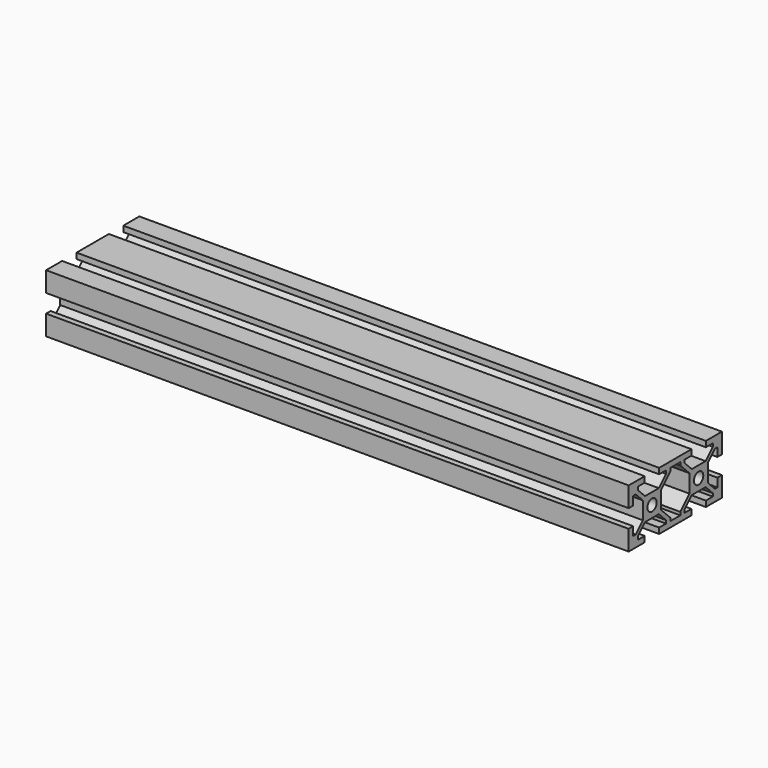
from build123d import *

# Parameters (mm, degrees)
F0_R     = 2
F1_DEPTH = 200


with BuildPart() as f1:
    # F0 (on Right) → F1 (new body)
    with BuildSketch(Plane.YZ):
        Polygon((6.935, 10), (0, 10), (-6.935, 10), (-6.935, 8.05), (-4, 8.05), (-4, 6.999239), (-7.074239, 3.925), (-13.005761, 3.925), (-16.08, 6.999239), (-16.08, 8.05), (-13.12, 8.05), (-13.12, 10), (-20, 10), (-20, 3.12), (-18.05, 3.12), (-18.05, 6.08), (-16.999239, 6.08), (-13.925, 3.005761), (-13.925, 0), (-13.925, -3.005761), (-16.999239, -6.08), (-18.05, -6.08), (-18.05, -3.12), (-20, -3.12), (-20, -10), (-13.12, -10), (-13.12, -8.05), (-16.08, -8.05), (-16.08, -6.999239), (-13.005761, -3.925), (-7.074239, -3.925), (-4, -6.999239), (-4, -8.05), (-6.935, -8.05), (-6.935, -10), (0, -10), (6.935, -10), (6.935, -8.05), (4, -8.05), (4, -6.999239), (7.074239, -3.925), (13.005761, -3.925), (16.08, -6.999239), (16.08, -8.05), (13.12, -8.05), (13.12, -10), (20, -10), (20, -3.12), (18.05, -3.12), (18.05, -6.08), (16.999239, -6.08), (13.925, -3.005761), (13.925, 0), (13.925, 3.005761), (16.999239, 6.08), (18.05, 6.08), (18.05, 3.12), (20, 3.12), (20, 10), (13.12, 10), (13.12, 8.05), (16.08, 8.05), (16.08, 6.999239), (13.005761, 3.925), (7.074239, 3.925), (4, 6.999239), (4, 8.05), (6.935, 8.05), align=None)
        with Locations((-10, 0)):
            Circle(F0_R, mode=Mode.SUBTRACT)
        Polygon((-2.161522, 8.05), (0, 8.05), (2.161522, 8.05), (2.161522, 6.999239), (6.075, 3.085761), (6.075, 0), (6.075, -3.085761), (2.161522, -6.999239), (2.161522, -8.05), (0, -8.05), (-2.161522, -8.05), (-2.161522, -6.999239), (-6.075, -3.085761), (-6.075, 0), (-6.075, 3.085761), (-2.161522, 6.999239), align=None, mode=Mode.SUBTRACT)
        with Locations((10, 0)):
            Circle(F0_R, mode=Mode.SUBTRACT)
    extrude(amount=F1_DEPTH)


solid = f1.part
